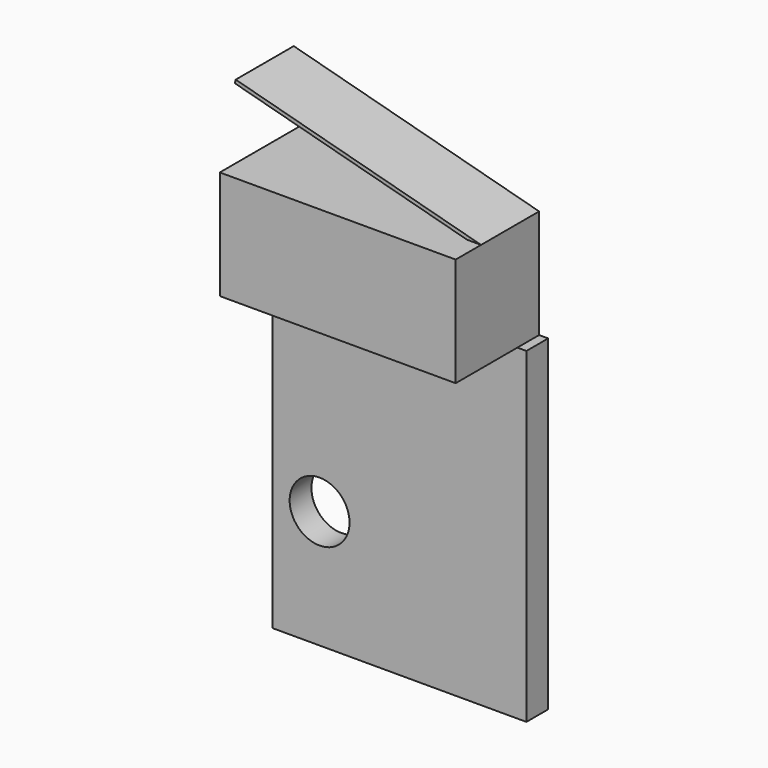
from build123d import *

# Parameters (mm, degrees)
F0_W     = 14
F0_H     = 18
F1_DEPTH = 1.5
F2_W     = 13
F2_H     = 6
F3_DEPTH = 5.75
F4_R     = 1.65
F5_DEPTH = 25
F7_DEPTH = 4
F8_ANGLE = -90


with BuildPart() as f1:
    # F0 (on Top) → F1 (new body)
    with BuildSketch(Plane.XY):
        Rectangle(F0_W, F0_H)
    extrude(amount=F1_DEPTH)

    # F2 (on Top) → F3 (join)
    with BuildSketch(Plane.XY):
        with Locations((0, 12)):
            Rectangle(F2_W, F2_H)
    extrude(amount=F3_DEPTH)

    # F4 (on face) → F5 (cut)
    with BuildSketch(Plane.XY.offset(1.5)):
        with Locations((-4.4, -2.5)):
            Circle(F4_R)
    extrude(amount=-F5_DEPTH, mode=Mode.SUBTRACT)

    # F6 (on Top) → F7 (join)
    with BuildSketch(Plane.XY):
        Polygon((5.727259339, 15), (6.5, 15), (-7.022961568, 18.6234666314), (-7.0747253771, 18.4302814662), align=None)
    extrude(amount=F7_DEPTH)


with BuildPart() as f1_1:
    # F8: moved
    add(f1.part.rotate(Axis((0, -9, 1.5), (-1, 0, 0)), F8_ANGLE))


with BuildPart() as f1_2:
    # F9: moved
    add(f1_1.part.moved(Location((0, -6, -17.7))))


solid = f1_2.part
